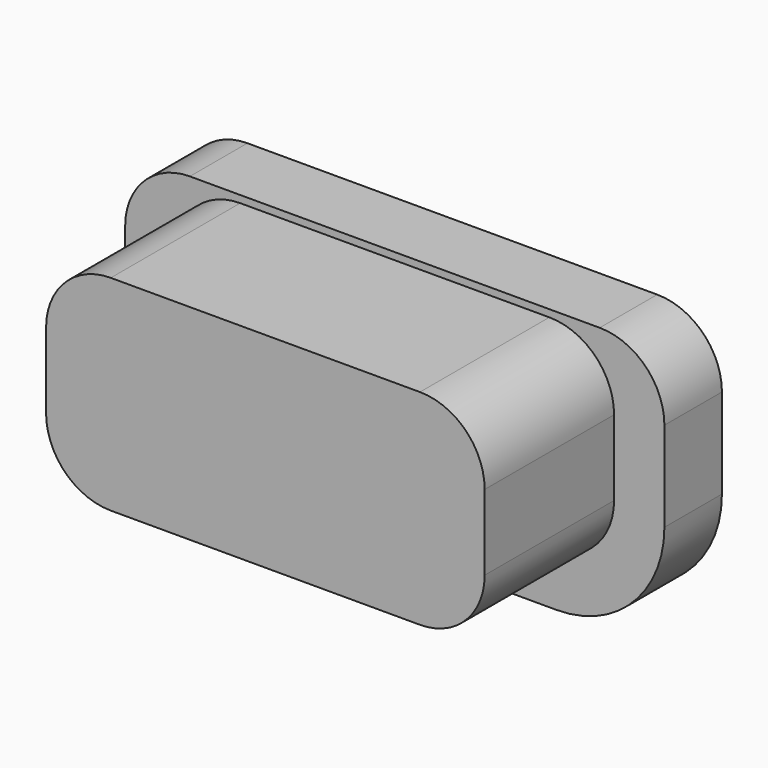
from build123d import *

# Parameters (mm, degrees)
EXTRUDE015_DEPTH = 1
EXTRUDE014_DEPTH = 2.25


with BuildPart() as extrude015:
    # Sketch015 → Extrude015 (new body)
    with BuildSketch(Plane.XZ):
        with BuildLine():
            ThreePointArc((11.7, 16.35), (11.063604, 16.086396), (10.8, 15.45))
            Line((10.8, 14.2), (10.8, 15.45))
            ThreePointArc((10.8, 14.2), (11.23934, 13.13934), (12.3, 12.7))
            Line((16.8, 12.7), (12.3, 12.7))
            ThreePointArc((16.8, 12.7), (17.86066, 13.13934), (18.3, 14.2))
            Line((18.3, 15.45), (18.3, 14.2))
            ThreePointArc((18.3, 15.45), (18.036396, 16.086396), (17.4, 16.35))
            Line((11.7, 16.35), (17.4, 16.35))
        make_face()
    extrude(amount=EXTRUDE015_DEPTH)


with BuildPart() as extrude015_1:
    # Extrude015 placement: moved
    add(extrude015.part.moved(Location((0, 3, 0))))


with BuildPart() as button1:
    # Sketch014 → Extrude014 (new body)
    with BuildSketch(Plane.XZ):
        with BuildLine():
            ThreePointArc((12.4, 16.25), (11.763604, 15.986396), (11.5, 15.35))
            Line((11.5, 14.3), (11.5, 15.35))
            ThreePointArc((11.5, 14.3), (11.763604, 13.663604), (12.4, 13.4))
            Line((16.7, 13.4), (12.4, 13.4))
            ThreePointArc((16.7, 13.4), (17.336396, 13.663604), (17.6, 14.3))
            Line((17.6, 15.35), (17.6, 14.3))
            ThreePointArc((17.6, 15.35), (17.336396, 15.986396), (16.7, 16.25))
            Line((12.4, 16.25), (16.7, 16.25))
        make_face()
    extrude(amount=EXTRUDE014_DEPTH)


with BuildPart() as button1_1:
    # Extrude014 placement: moved
    add(button1.part.moved(Location((0, 2, 0))))

    # Fusion018: union Extrude015
    add(extrude015_1.part)


solid = button1_1.part
